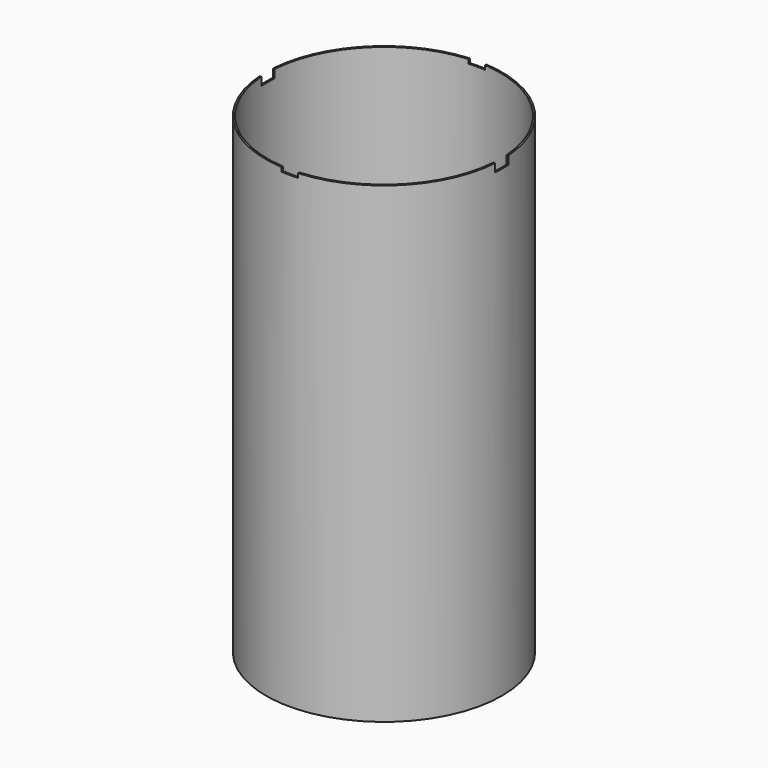
from build123d import *

# Parameters (mm, degrees)
F0_R          = 57.15
F1_DEPTH      = 228.6
F2_T          = -0.8
F3_R          = 1
F4_DEPTH      = 0.8
F5_W          = 8
F5_H          = 2
F6_DEPTH      = 57.151
F6_DEPTH_BACK = 57.151
F7_W          = 8
F7_H          = 4
F8_DEPTH      = 57.151
F8_DEPTH_BACK = 57.151


with BuildPart() as f1:
    # F0 (on Top) → F1 (new body)
    with BuildSketch(Plane.XY):
        Circle(F0_R)
    extrude(amount=F1_DEPTH)

    # F2
    f2_openings = [f1.faces().sort_by_distance(p)[0] for p in [
        (0, 0, 228.6),
    ]]
    offset(amount=F2_T, openings=f2_openings)

    # F3 (on face) → F4 (cut, through all)
    with BuildSketch(Plane.XY.offset(0.8)):
        Circle(F3_R)
    extrude(amount=-F4_DEPTH, mode=Mode.SUBTRACT)

    # F5 (on Front) → F6 (cut, two sides)
    with BuildSketch(Plane.XZ) as f6_sk:
        with Locations((0, 227.6)):
            Rectangle(F5_W, F5_H)
    extrude(amount=-F6_DEPTH, mode=Mode.SUBTRACT)
    extrude(f6_sk.sketch, amount=F6_DEPTH_BACK, mode=Mode.SUBTRACT)

    # F7 (on Right) → F8 (cut, two sides)
    with BuildSketch(Plane.YZ) as f8_sk:
        with Locations((0, 226.6)):
            Rectangle(F7_W, F7_H)
    extrude(amount=-F8_DEPTH, mode=Mode.SUBTRACT)
    extrude(f8_sk.sketch, amount=F8_DEPTH_BACK, mode=Mode.SUBTRACT)


solid = f1.part
